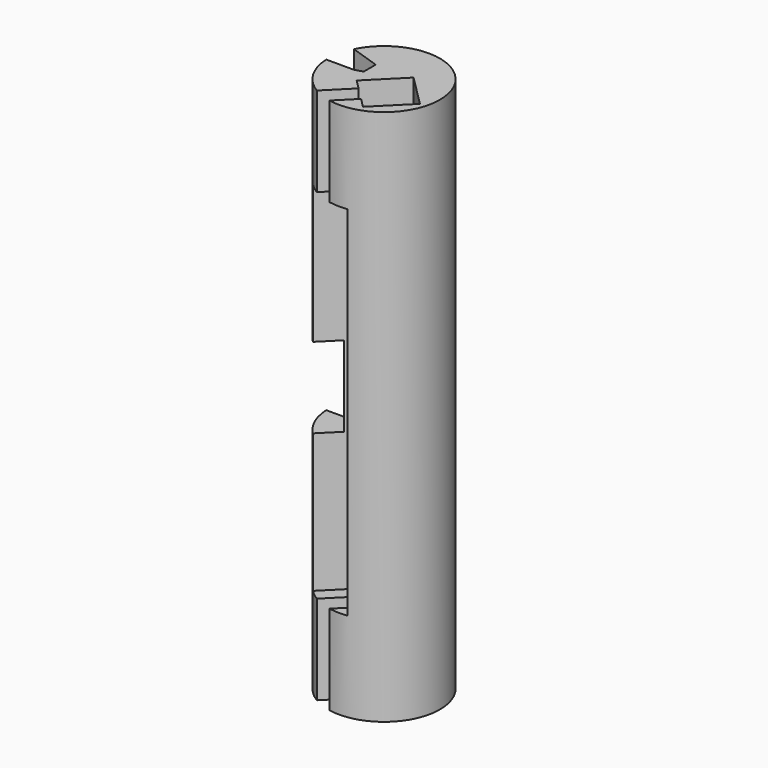
from build123d import *

# Parameters (mm, degrees)
F0_R           = 15.875
F1_DEPTH       = 152.4
F3_DEPTH       = 127
F4_R           = 3.175
F5_DEPTH       = 152.4
F8_DEPTH       = 101.6
F10_DEPTH      = 25.401
F10_DEPTH_BACK = 127.001
F12_DEPTH      = 152.401
F13_W          = 19.05
F13_H          = 22.86
F14_DEPTH      = 15.876
F14_DEPTH_BACK = 15.876


with BuildPart() as f1:
    # F0 (on Top) → F1 (new body)
    with BuildSketch(Plane.XY):
        Circle(F0_R)
    extrude(amount=F1_DEPTH)

    # F2 (on face) → F3 (cut)
    with BuildSketch(Plane.XY.offset(152.4)):
        Polygon((4.6622561211, 4.6622561211), (-4.318, -4.318), (4.6622561211, -13.2982561211), (13.6425122421, -4.318), align=None)
    extrude(amount=-F3_DEPTH, mode=Mode.SUBTRACT)

    # F4 (on face) → F5 (cut)
    with BuildSketch(Plane.XY.offset(152.4)):
        with Locations((4.6622561211, -4.318)):
            Circle(F4_R)
    extrude(amount=-F5_DEPTH, mode=Mode.SUBTRACT)

    # F7 (on offset) → F8 (cut)
    with BuildSketch(Plane.XY.offset(127)):
        Polygon((8.9802561211, -8.9802561211), (0, 0), (-17.9605122421, -17.9605122421), (-8.9802561211, -26.9407683632), align=None)
    extrude(amount=-F8_DEPTH, mode=Mode.SUBTRACT)

    # F9 (on face) → F10 (cut, two sides)
    with BuildSketch(Plane.XY.offset(25.4)) as f10_sk:
        Polygon((-6.8689398237, -19.4412983932), (5.1112689271, -7.4610896424), (1.5191664787, -3.8689871939), (-10.4610422721, -15.8491959447), align=None)
    extrude(amount=-F10_DEPTH, mode=Mode.SUBTRACT)
    extrude(f10_sk.sketch, amount=F10_DEPTH_BACK, mode=Mode.SUBTRACT)

    # F11 (on face) → F12 (cut, through all)
    with BuildSketch(Plane.XY.offset(152.4)):
        Polygon((-23.2781873974, 10.1192935667), (-26.9931931626, 10.1192935667), (-26.9931931626, -0.6757064333), (-7.9431931626, -0.6757064333), (-5.7593395008, 0), (-5.7593395008, 4.2418), align=None)
    extrude(amount=-F12_DEPTH, mode=Mode.SUBTRACT)

    # F13 (on Front) → F14 (cut, two sides)
    with BuildSketch(Plane.XZ) as f14_sk:
        with Locations((-15.875, 76.2)):
            Rectangle(F13_W, F13_H)
    extrude(amount=-F14_DEPTH, mode=Mode.SUBTRACT)
    extrude(f14_sk.sketch, amount=F14_DEPTH_BACK, mode=Mode.SUBTRACT)


solid = f1.part
